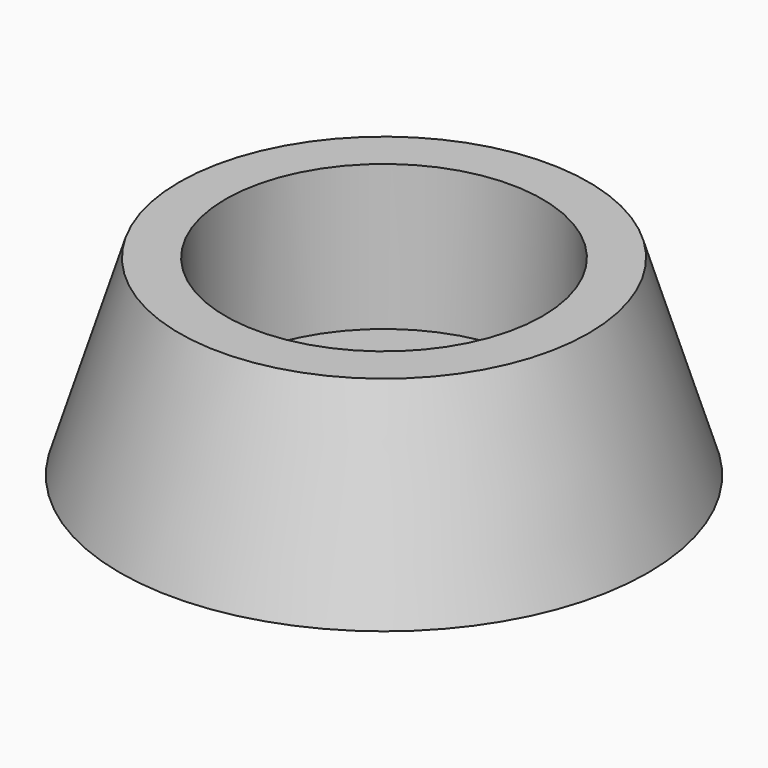
from build123d import *


with BuildPart() as part:
    # Sketch → Revolution (revolve)
    with BuildSketch(Plane.XZ):
        Polygon((6, 7.25), (6, 1.75), (2.75, 1.75), (2.75, 0), (10, 0), (7.75, 7.25), align=None)
    revolve(axis=Axis((0, 0, 0), (0, 0, 1)))


solid = part.part
